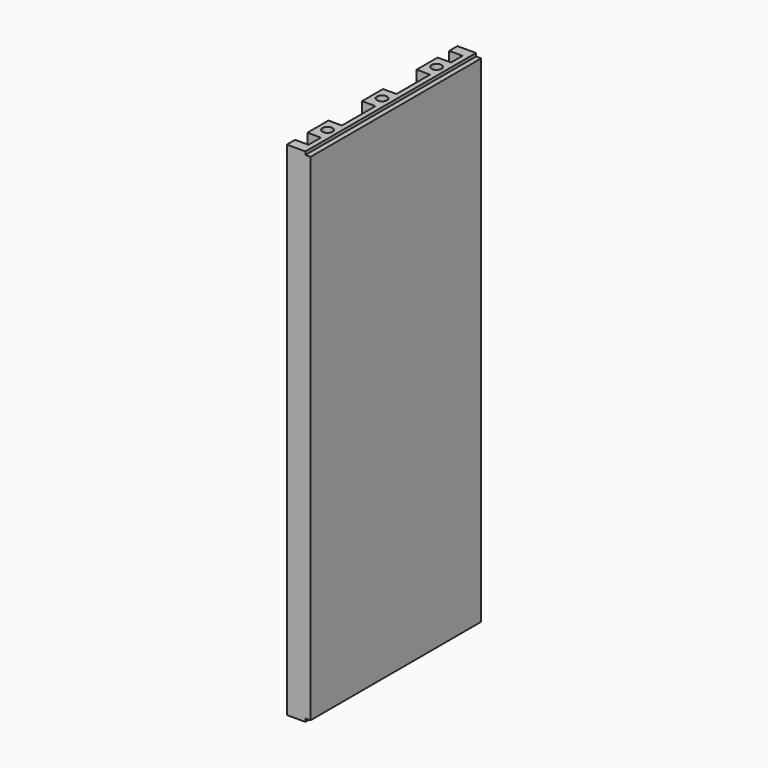
from build123d import *

# Parameters (mm, degrees)
PAD014_DEPTH    = 243
SKETCH010_R     = 4.925
POCKET_DEPTH    = 20
SKETCH013_W     = 3
SKETCH013_H     = 207
POCKET001_DEPTH = 5


with BuildPart() as part:
    # Sketch009 → Pad014 (new body)
    with BuildSketch(Plane.XY):
        Polygon((0, 206.4), (0, 196.4), (13, 196.4), (13, 182.4), (0, 182.4), (0, 157), (13, 157), (13, 116.4), (0, 116.4), (0, 91), (13, 91), (13, 50.4), (0, 50.4), (0, 25), (13, 25), (13, 10), (0, 10), (0, 0), (23, 0), (23, 206.4), align=None)
    extrude(amount=PAD014_DEPTH)

    # Sketch010 (on Vertex37 of Pad014) → Pocket (cut)
    with BuildSketch(Plane(origin=(23, 0, 0), x_dir=(-1, 0, 0), z_dir=(0, 0, -1))):
        with Locations((14, 104)):
            Circle(SKETCH010_R)
        with Locations((14, 170)):
            Circle(SKETCH010_R)
        with Locations((14, 38)):
            Circle(SKETCH010_R)
    extrude(amount=-POCKET_DEPTH, mode=Mode.SUBTRACT)

    # Sketch013 (on Face6 of Pocket) → Pocket001 (cut)
    with BuildSketch(Plane(origin=(23, 0, 0), x_dir=(0, 0, -1), z_dir=(1, 0, 0))):
        with Locations((-1.5, 103.5)):
            Rectangle(SKETCH013_W, SKETCH013_H)
    extrude(amount=-POCKET001_DEPTH, mode=Mode.SUBTRACT)

    # Mirrored: part across face of Pocket


with BuildPart() as part_1:
    add(part.part)
    add(part.part.mirror(Plane(origin=(13.661045, 103.34943, 243), x_dir=(1, 0, 0), z_dir=(0, 0, 1))))


with BuildPart() as part_2:
    # Body010 placement: moved
    add(part_1.part.moved(Location((440.6, 14.75, 284))))


solid = part_2.part
